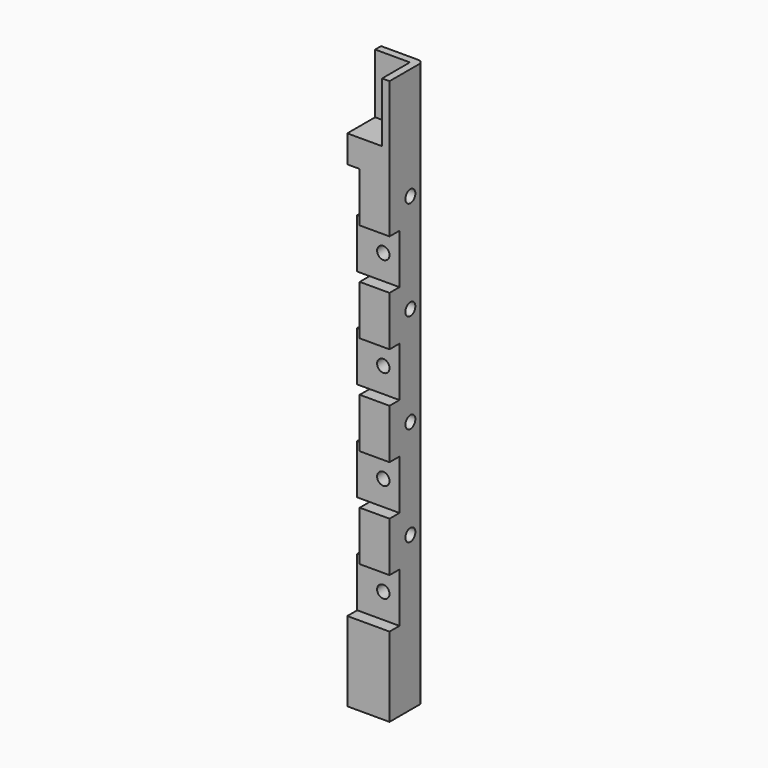
from build123d import *

# Parameters (mm, degrees)
SKETCH_W               = 8.5
SKETCH_H               = 8.5
PAD_DEPTH              = 113.5
SKETCH001_W            = 10
SKETCH001_H            = 10
POCKET_DEPTH           = 2.5
LINEARPATTERN_COUNT    = 4
LINEARPATTERN_PITCH    = 20
SKETCH002_W            = 10
SKETCH002_H            = 10
POCKET001_DEPTH        = 2.5
LINEARPATTERN001_COUNT = 4
LINEARPATTERN001_PITCH = 20
FILLET_R               = 1
SKETCH003_R            = 1.25
POCKET002_DEPTH        = 6.001
LINEARPATTERN002_COUNT = 4
LINEARPATTERN002_PITCH = 20
SKETCH004_R            = 1.25
POCKET003_DEPTH        = 6.001
LINEARPATTERN003_COUNT = 4
LINEARPATTERN003_PITCH = 20
SKETCH005_W            = 8.5
SKETCH005_H            = 8.5
POCKET004_DEPTH        = 12


with BuildPart() as part:
    # Sketch → Pad (new body)
    with BuildSketch(Plane.XY):
        with Locations((4.25, 4.25)):
            Rectangle(SKETCH_W, SKETCH_H)
    extrude(amount=PAD_DEPTH)

    # Sketch001 → Pocket (cut)
    with BuildSketch(Plane.XZ):
        with Locations((4.410969, 21)):
            Rectangle(SKETCH001_W, SKETCH001_H)
    pocket = extrude(amount=-POCKET_DEPTH, mode=Mode.SUBTRACT)

    # LinearPattern: Pocket ×4
    with Locations(*[(0, 0, i * LINEARPATTERN_PITCH) for i in range(1, LINEARPATTERN_COUNT)]):
        add(pocket, mode=Mode.SUBTRACT)

    # Sketch002 → Pocket001 (cut)
    with BuildSketch(Plane(origin=(0, 0, 0), x_dir=(0, -1, 0), z_dir=(-1, 0, 0))):
        with Locations((-4.326825, 31)):
            Rectangle(SKETCH002_W, SKETCH002_H)
    pocket001 = extrude(amount=-POCKET001_DEPTH, mode=Mode.SUBTRACT)

    # LinearPattern001: Pocket001 ×4
    with Locations(*[(0, 0, i * LINEARPATTERN001_PITCH) for i in range(1, LINEARPATTERN001_COUNT)]):
        add(pocket001, mode=Mode.SUBTRACT)

    # Fillet
    fillet_edges = [part.edges().sort_by_distance(p)[0] for p in [
        (8.5, 8.5, 56.75),
    ]]
    fillet(fillet_edges, radius=FILLET_R)

    # Sketch003 → Pocket002 (cut, through all)
    with BuildSketch(Plane.XZ.offset(-2.5)):
        with Locations((5.25, 21)):
            Circle(SKETCH003_R)
    pocket002 = extrude(amount=-POCKET002_DEPTH, mode=Mode.SUBTRACT)

    # LinearPattern002: Pocket002 ×4
    with Locations(*[(0, 0, i * LINEARPATTERN002_PITCH) for i in range(1, LINEARPATTERN002_COUNT)]):
        add(pocket002, mode=Mode.SUBTRACT)

    # Sketch004 → Pocket003 (cut, through all)
    with BuildSketch(Plane(origin=(2.5, 0, 0), x_dir=(0, -1, 0), z_dir=(-1, 0, 0))):
        with Locations((-5.25, 31)):
            Circle(SKETCH004_R)
    pocket003 = extrude(amount=-POCKET003_DEPTH, mode=Mode.SUBTRACT)

    # LinearPattern003: Pocket003 ×4
    with Locations(*[(0, 0, i * LINEARPATTERN003_PITCH) for i in range(1, LINEARPATTERN003_COUNT)]):
        add(pocket003, mode=Mode.SUBTRACT)

    # Sketch005 → Pocket004 (cut)
    with BuildSketch(Plane.XY.offset(113.5)):
        with Locations((2.75, 2.75)):
            Rectangle(SKETCH005_W, SKETCH005_H)
    extrude(amount=-POCKET004_DEPTH, mode=Mode.SUBTRACT)


solid = part.part
